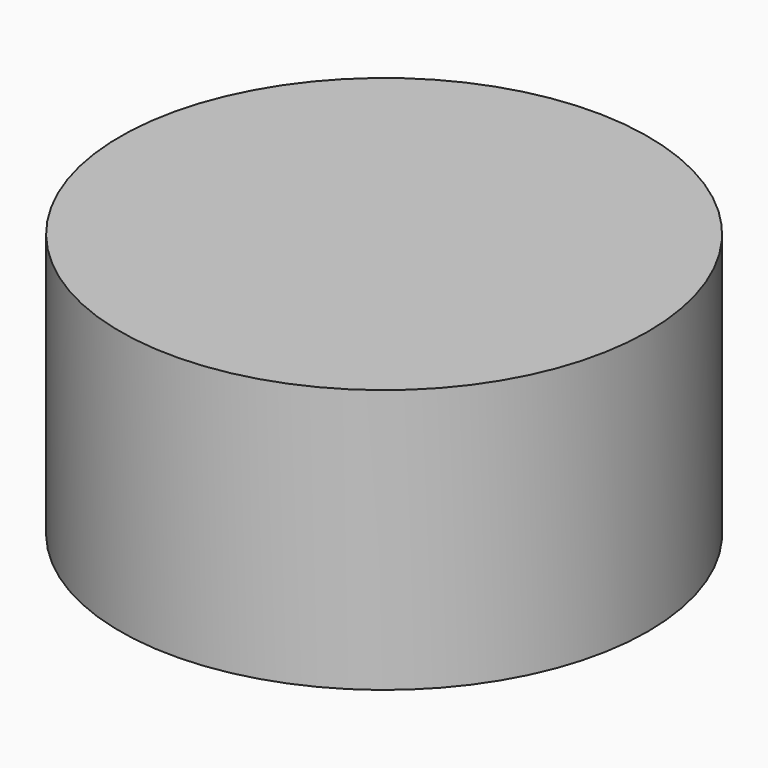
from build123d import *

# Parameters (mm, degrees)
CYLINDER_R     = 2
CYLINDER_DEPTH = 2


with BuildPart() as part:
    # Cylinder → Cylinder (new body)
    with BuildSketch(Plane.XY):
        Circle(CYLINDER_R)
    extrude(amount=CYLINDER_DEPTH)


solid = part.part
